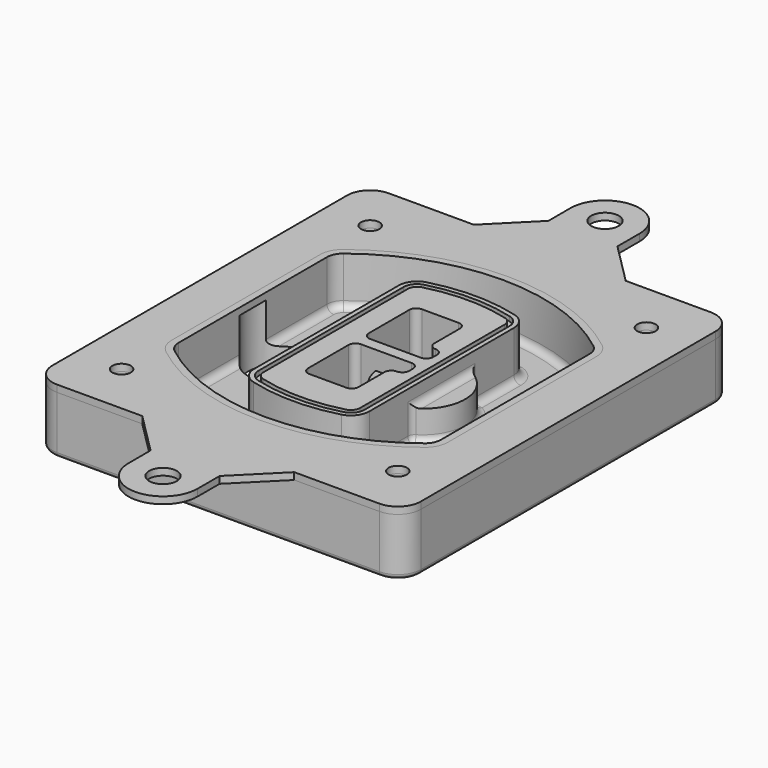
from build123d import *

# Parameters (mm, degrees)
F0_R      = 4
F1_DEPTH  = 25
F2_DEPTH  = 3
F3_DEPTH  = 18
F5_DEPTH  = 21
F6_DEPTH  = 2
F8_DEPTH  = 20
F9_DEPTH  = 16
F10_DEPTH = 25
F7_R      = 6
F7_R_2    = 4
F11_DEPTH = 6
F13_DEPTH = 9
F14_R     = 3
F15_R     = 2
F16_R     = 6
F16_R_2   = 4
F17_DEPTH = 3


with BuildPart() as f1:
    # F0 (on Top) → F1 (new body)
    with BuildSketch(Plane.XY):
        with BuildLine():
            ThreePointArc((-80, -80), (-77.0710678119, -87.0710678119), (-70, -90))
            Line((-70, -90), (70, -90))
            ThreePointArc((70, -90), (77.0710678119, -87.0710678119), (80, -80))
            Line((80, -80), (80, 80))
            ThreePointArc((80, 80), (77.0710678119, 87.0710678119), (70, 90))
            Line((70, 90), (-70, 90))
            ThreePointArc((-70, 90), (-77.0710678119, 87.0710678119), (-80, 80))
            Line((-80, 80), (-80, -80))
        make_face()
        with Locations((-60, -67.5)):
            Circle(F0_R, mode=Mode.SUBTRACT)
        with Locations((60, -67.5)):
            Circle(F0_R, mode=Mode.SUBTRACT)
        with Locations((-60, 67.5)):
            Circle(F0_R, mode=Mode.SUBTRACT)
        with BuildLine():
            ThreePointArc((-64, 40.2934422872), (-62.5820384798, 46.4328484224), (-58.6153846154, 51.3286200352))
            ThreePointArc((-58.6153846154, 51.3286200352), (0, 71.5), (58.6153846154, 51.3286200352))
            ThreePointArc((58.6153846154, 51.3286200352), (62.5820384798, 46.4328484224), (64, 40.2934422872))
            Line((64, 40.2934422872), (64, -40.2934422872))
            ThreePointArc((64, -40.2934422872), (62.5820384798, -46.4328484224), (58.6153846154, -51.3286200352))
            ThreePointArc((58.6153846154, -51.3286200352), (0, -71.5), (-58.6153846154, -51.3286200352))
            ThreePointArc((-58.6153846154, -51.3286200352), (-62.5820384798, -46.4328484224), (-64, -40.2934422872))
            Line((-64, -40.2934422872), (-64, 40.2934422872))
        make_face(mode=Mode.SUBTRACT)
        with Locations((60, 67.5)):
            Circle(F0_R, mode=Mode.SUBTRACT)
        with BuildLine():
            ThreePointArc((58.6153846154, 51.3286200352), (0, 71.5), (-58.6153846154, 51.3286200352))
            ThreePointArc((-58.6153846154, 51.3286200352), (-62.5820384798, 46.4328484224), (-64, 40.2934422872))
            Line((-64, 40.2934422872), (-64, -40.2934422872))
            ThreePointArc((-64, -40.2934422872), (-62.5820384798, -46.4328484224), (-58.6153846154, -51.3286200352))
            ThreePointArc((-58.6153846154, -51.3286200352), (0, -71.5), (58.6153846154, -51.3286200352))
            ThreePointArc((58.6153846154, -51.3286200352), (62.5820384798, -46.4328484224), (64, -40.2934422872))
            Line((64, -40.2934422872), (64, 40.2934422872))
            ThreePointArc((64, 40.2934422872), (62.5820384798, 46.4328484224), (58.6153846154, 51.3286200352))
        make_face()
        with BuildLine():
            Line((-60, -40.2934422872), (-60, 40.2934422872))
            ThreePointArc((-60, 40.2934422872), (-58.9871703427, 44.6787323838), (-56.1538461538, 48.1757121072))
            ThreePointArc((-56.1538461538, 48.1757121072), (0, 67.5), (56.1538461538, 48.1757121072))
            ThreePointArc((56.1538461538, 48.1757121072), (58.9871703427, 44.6787323838), (60, 40.2934422872))
            Line((60, 40.2934422872), (60, -40.2934422872))
            ThreePointArc((60, -40.2934422872), (58.9871703427, -44.6787323838), (56.1538461538, -48.1757121072))
            ThreePointArc((56.1538461538, -48.1757121072), (0, -67.5), (-56.1538461538, -48.1757121072))
            ThreePointArc((-56.1538461538, -48.1757121072), (-58.9871703427, -44.6787323838), (-60, -40.2934422872))
        make_face(mode=Mode.SUBTRACT)
        with BuildLine():
            ThreePointArc((-56.1538461538, 48.1757121072), (-58.9871703427, 44.6787323838), (-60, 40.2934422872))
            Line((-60, 40.2934422872), (-60, -40.2934422872))
            ThreePointArc((-60, -40.2934422872), (-58.9871703427, -44.6787323838), (-56.1538461538, -48.1757121072))
            ThreePointArc((-56.1538461538, -48.1757121072), (0, -67.5), (56.1538461538, -48.1757121072))
            ThreePointArc((56.1538461538, -48.1757121072), (58.9871703427, -44.6787323838), (60, -40.2934422872))
            Line((60, -40.2934422872), (60, 40.2934422872))
            ThreePointArc((60, 40.2934422872), (58.9871703427, 44.6787323838), (56.1538461538, 48.1757121072))
            ThreePointArc((56.1538461538, 48.1757121072), (0, 67.5), (-56.1538461538, 48.1757121072))
        make_face()
        with BuildLine():
            ThreePointArc((54.3076923077, 45.8110311612), (56.2910192399, 43.3631453548), (57, 40.2934422872))
            Line((57, 40.2934422872), (57, -40.2934422872))
            ThreePointArc((57, -40.2934422872), (56.2910192399, -43.3631453548), (54.3076923077, -45.8110311612))
            ThreePointArc((54.3076923077, -45.8110311612), (0, -64.5), (-54.3076923077, -45.8110311612))
            ThreePointArc((-54.3076923077, -45.8110311612), (-56.2910192399, -43.3631453548), (-57, -40.2934422872))
            Line((-57, -40.2934422872), (-57, 40.2934422872))
            ThreePointArc((-57, 40.2934422872), (-56.2910192399, 43.3631453548), (-54.3076923077, 45.8110311612))
            ThreePointArc((-54.3076923077, 45.8110311612), (0, 64.5), (54.3076923077, 45.8110311612))
        make_face(mode=Mode.SUBTRACT)
        with BuildLine():
            Line((57, -40.2934422872), (57, 40.2934422872))
            ThreePointArc((57, 40.2934422872), (56.2910192399, 43.3631453548), (54.3076923077, 45.8110311612))
            ThreePointArc((54.3076923077, 45.8110311612), (0, 64.5), (-54.3076923077, 45.8110311612))
            ThreePointArc((-54.3076923077, 45.8110311612), (-56.2910192399, 43.3631453548), (-57, 40.2934422872))
            Line((-57, 40.2934422872), (-57, -40.2934422872))
            ThreePointArc((-57, -40.2934422872), (-56.2910192399, -43.3631453548), (-54.3076923077, -45.8110311612))
            ThreePointArc((-54.3076923077, -45.8110311612), (0, -64.5), (54.3076923077, -45.8110311612))
            ThreePointArc((54.3076923077, -45.8110311612), (56.2910192399, -43.3631453548), (57, -40.2934422872))
        make_face()
    extrude(amount=-F1_DEPTH)

    # F0 (on Top) → F2 (join)
    with BuildSketch(Plane.XY):
        with BuildLine():
            ThreePointArc((-56.1538461538, 48.1757121072), (-58.9871703427, 44.6787323838), (-60, 40.2934422872))
            Line((-60, 40.2934422872), (-60, -40.2934422872))
            ThreePointArc((-60, -40.2934422872), (-58.9871703427, -44.6787323838), (-56.1538461538, -48.1757121072))
            ThreePointArc((-56.1538461538, -48.1757121072), (0, -67.5), (56.1538461538, -48.1757121072))
            ThreePointArc((56.1538461538, -48.1757121072), (58.9871703427, -44.6787323838), (60, -40.2934422872))
            Line((60, -40.2934422872), (60, 40.2934422872))
            ThreePointArc((60, 40.2934422872), (58.9871703427, 44.6787323838), (56.1538461538, 48.1757121072))
            ThreePointArc((56.1538461538, 48.1757121072), (0, 67.5), (-56.1538461538, 48.1757121072))
        make_face()
        with BuildLine():
            ThreePointArc((54.3076923077, 45.8110311612), (56.2910192399, 43.3631453548), (57, 40.2934422872))
            Line((57, 40.2934422872), (57, -40.2934422872))
            ThreePointArc((57, -40.2934422872), (56.2910192399, -43.3631453548), (54.3076923077, -45.8110311612))
            ThreePointArc((54.3076923077, -45.8110311612), (0, -64.5), (-54.3076923077, -45.8110311612))
            ThreePointArc((-54.3076923077, -45.8110311612), (-56.2910192399, -43.3631453548), (-57, -40.2934422872))
            Line((-57, -40.2934422872), (-57, 40.2934422872))
            ThreePointArc((-57, 40.2934422872), (-56.2910192399, 43.3631453548), (-54.3076923077, 45.8110311612))
            ThreePointArc((-54.3076923077, 45.8110311612), (0, 64.5), (54.3076923077, 45.8110311612))
        make_face(mode=Mode.SUBTRACT)
    extrude(amount=F2_DEPTH)

    # F0 (on Top) → F3 (cut)
    with BuildSketch(Plane.XY):
        with BuildLine():
            Line((57, -40.2934422872), (57, 40.2934422872))
            ThreePointArc((57, 40.2934422872), (56.2910192399, 43.3631453548), (54.3076923077, 45.8110311612))
            ThreePointArc((54.3076923077, 45.8110311612), (0, 64.5), (-54.3076923077, 45.8110311612))
            ThreePointArc((-54.3076923077, 45.8110311612), (-56.2910192399, 43.3631453548), (-57, 40.2934422872))
            Line((-57, 40.2934422872), (-57, -40.2934422872))
            ThreePointArc((-57, -40.2934422872), (-56.2910192399, -43.3631453548), (-54.3076923077, -45.8110311612))
            ThreePointArc((-54.3076923077, -45.8110311612), (0, -64.5), (54.3076923077, -45.8110311612))
            ThreePointArc((54.3076923077, -45.8110311612), (56.2910192399, -43.3631453548), (57, -40.2934422872))
        make_face()
    extrude(amount=-F3_DEPTH, mode=Mode.SUBTRACT)

    # F4 (on face) → F5 (join, through all)
    with BuildSketch(Plane.XY.offset(3)):
        with BuildLine():
            ThreePointArc((-25, -39.2465276821), (-23.3511545998, -44.1109737193), (-19.0842911877, -46.9702398883))
            ThreePointArc((-19.0842911877, -46.9702398883), (0, -49.5), (19.0842911877, -46.9702398883))
            ThreePointArc((19.0842911877, -46.9702398883), (23.3511545998, -44.1109737193), (25, -39.2465276821))
            Line((25, -39.2465276821), (25, 39.2465276821))
            ThreePointArc((25, 39.2465276821), (23.3511545998, 44.1109737193), (19.0842911877, 46.9702398883))
            ThreePointArc((19.0842911877, 46.9702398883), (0, 49.5), (-19.0842911877, 46.9702398883))
            ThreePointArc((-19.0842911877, 46.9702398883), (-23.3511545998, 44.1109737193), (-25, 39.2465276821))
            Line((-25, 39.2465276821), (-25, -39.2465276821))
        make_face()
        with BuildLine():
            ThreePointArc((18.5632183908, 45.0393118368), (21.7633659499, 42.89486221), (23, 39.2465276821))
            Line((23, 39.2465276821), (23, -39.2465276821))
            ThreePointArc((23, -39.2465276821), (21.7633659499, -42.89486221), (18.5632183908, -45.0393118368))
            ThreePointArc((18.5632183908, -45.0393118368), (0, -47.5), (-18.5632183908, -45.0393118368))
            ThreePointArc((-18.5632183908, -45.0393118368), (-21.7633659499, -42.89486221), (-23, -39.2465276821))
            Line((-23, -39.2465276821), (-23, 39.2465276821))
            ThreePointArc((-23, 39.2465276821), (-21.7633659499, 42.89486221), (-18.5632183908, 45.0393118368))
            ThreePointArc((-18.5632183908, 45.0393118368), (0, 47.5), (18.5632183908, 45.0393118368))
        make_face(mode=Mode.SUBTRACT)
        with BuildLine():
            Line((23, -39.2465276821), (23, 39.2465276821))
            ThreePointArc((23, 39.2465276821), (21.7633659499, 42.89486221), (18.5632183908, 45.0393118368))
            ThreePointArc((18.5632183908, 45.0393118368), (0, 47.5), (-18.5632183908, 45.0393118368))
            ThreePointArc((-18.5632183908, 45.0393118368), (-21.7633659499, 42.89486221), (-23, 39.2465276821))
            Line((-23, 39.2465276821), (-23, -39.2465276821))
            ThreePointArc((-23, -39.2465276821), (-21.7633659499, -42.89486221), (-18.5632183908, -45.0393118368))
            ThreePointArc((-18.5632183908, -45.0393118368), (0, -47.5), (18.5632183908, -45.0393118368))
            ThreePointArc((18.5632183908, -45.0393118368), (21.7633659499, -42.89486221), (23, -39.2465276821))
        make_face()
        with BuildLine():
            ThreePointArc((18.0421455939, 43.1083837852), (20.1755772999, 41.6787507007), (21, 39.2465276821))
            Line((21, 39.2465276821), (21, -39.2465276821))
            ThreePointArc((21, -39.2465276821), (20.1755772999, -41.6787507007), (18.0421455939, -43.1083837852))
            ThreePointArc((18.0421455939, -43.1083837852), (0, -45.5), (-18.0421455939, -43.1083837852))
            ThreePointArc((-18.0421455939, -43.1083837852), (-20.1755772999, -41.6787507007), (-21, -39.2465276821))
            Line((-21, -39.2465276821), (-21, 39.2465276821))
            ThreePointArc((-21, 39.2465276821), (-20.1755772999, 41.6787507007), (-18.0421455939, 43.1083837852))
            ThreePointArc((-18.0421455939, 43.1083837852), (0, 45.5), (18.0421455939, 43.1083837852))
        make_face(mode=Mode.SUBTRACT)
        with BuildLine():
            Line((21, -39.2465276821), (21, 39.2465276821))
            ThreePointArc((21, 39.2465276821), (20.1755772999, 41.6787507007), (18.0421455939, 43.1083837852))
            ThreePointArc((18.0421455939, 43.1083837852), (0, 45.5), (-18.0421455939, 43.1083837852))
            ThreePointArc((-18.0421455939, 43.1083837852), (-20.1755772999, 41.6787507007), (-21, 39.2465276821))
            Line((-21, 39.2465276821), (-21, -39.2465276821))
            ThreePointArc((-21, -39.2465276821), (-20.1755772999, -41.6787507007), (-18.0421455939, -43.1083837852))
            ThreePointArc((-18.0421455939, -43.1083837852), (0, -45.5), (18.0421455939, -43.1083837852))
            ThreePointArc((18.0421455939, -43.1083837852), (20.1755772999, -41.6787507007), (21, -39.2465276821))
        make_face()
        with BuildLine():
            Line((-8, -2.5), (14, -2.5))
            ThreePointArc((14, -2.5), (16.1213203436, -3.3786796564), (17, -5.5))
            Line((17, -5.5), (17, -7.5))
            ThreePointArc((17, -7.5), (16.1213203436, -9.6213203436), (14, -10.5))
            ThreePointArc((14, -10.5), (11.8786796564, -11.3786796564), (11, -13.5))
            Line((11, -13.5), (11, -27.5))
            ThreePointArc((11, -27.5), (10.1213203436, -29.6213203436), (8, -30.5))
            Line((8, -30.5), (-8, -30.5))
            ThreePointArc((-8, -30.5), (-10.1213203436, -29.6213203436), (-11, -27.5))
            Line((-11, -27.5), (-11, -5.5))
            ThreePointArc((-11, -5.5), (-10.1213203436, -3.3786796564), (-8, -2.5))
        make_face(mode=Mode.SUBTRACT)
        with BuildLine():
            ThreePointArc((-8, 2.5), (-10.1213203436, 3.3786796564), (-11, 5.5))
            Line((-11, 5.5), (-11, 27.5))
            ThreePointArc((-11, 27.5), (-10.1213203436, 29.6213203436), (-8, 30.5))
            Line((-8, 30.5), (8, 30.5))
            ThreePointArc((8, 30.5), (10.1213203436, 29.6213203436), (11, 27.5))
            Line((11, 27.5), (11, 13.5))
            ThreePointArc((11, 13.5), (11.8786796564, 11.3786796564), (14, 10.5))
            ThreePointArc((14, 10.5), (16.1213203436, 9.6213203436), (17, 7.5))
            Line((17, 7.5), (17, 5.5))
            ThreePointArc((17, 5.5), (16.1213203436, 3.3786796564), (14, 2.5))
            Line((14, 2.5), (-8, 2.5))
        make_face(mode=Mode.SUBTRACT)
    extrude(amount=-F5_DEPTH)

    # F4 (on face) → F6 (cut)
    with BuildSketch(Plane.XY.offset(3)):
        with BuildLine():
            Line((23, -39.2465276821), (23, 39.2465276821))
            ThreePointArc((23, 39.2465276821), (21.7633659499, 42.89486221), (18.5632183908, 45.0393118368))
            ThreePointArc((18.5632183908, 45.0393118368), (0, 47.5), (-18.5632183908, 45.0393118368))
            ThreePointArc((-18.5632183908, 45.0393118368), (-21.7633659499, 42.89486221), (-23, 39.2465276821))
            Line((-23, 39.2465276821), (-23, -39.2465276821))
            ThreePointArc((-23, -39.2465276821), (-21.7633659499, -42.89486221), (-18.5632183908, -45.0393118368))
            ThreePointArc((-18.5632183908, -45.0393118368), (0, -47.5), (18.5632183908, -45.0393118368))
            ThreePointArc((18.5632183908, -45.0393118368), (21.7633659499, -42.89486221), (23, -39.2465276821))
        make_face()
        with BuildLine():
            ThreePointArc((18.0421455939, 43.1083837852), (20.1755772999, 41.6787507007), (21, 39.2465276821))
            Line((21, 39.2465276821), (21, -39.2465276821))
            ThreePointArc((21, -39.2465276821), (20.1755772999, -41.6787507007), (18.0421455939, -43.1083837852))
            ThreePointArc((18.0421455939, -43.1083837852), (0, -45.5), (-18.0421455939, -43.1083837852))
            ThreePointArc((-18.0421455939, -43.1083837852), (-20.1755772999, -41.6787507007), (-21, -39.2465276821))
            Line((-21, -39.2465276821), (-21, 39.2465276821))
            ThreePointArc((-21, 39.2465276821), (-20.1755772999, 41.6787507007), (-18.0421455939, 43.1083837852))
            ThreePointArc((-18.0421455939, 43.1083837852), (0, 45.5), (18.0421455939, 43.1083837852))
        make_face(mode=Mode.SUBTRACT)
    extrude(amount=-F6_DEPTH, mode=Mode.SUBTRACT)

    # F7 (on face) → F8 (join)
    with BuildSketch(Plane(origin=(0, 0, -25), x_dir=(1, 0, 0), z_dir=(0, 0, -1))):
        with BuildLine():
            ThreePointArc((3.28842436, 0), (16.7567035675, 13.4682792075), (30.224982775, 0))
            Line((30.224982775, 0), (35.224982775, 0))
            ThreePointArc((35.224982775, 0), (16.7567035675, 18.4682792075), (-1.71157564, 0))
            Line((-1.71157564, 0), (3.28842436, 0))
        make_face()
        with BuildLine():
            Line((3.28842436, 0), (30.224982775, 0))
            ThreePointArc((30.224982775, 0), (16.7567035675, 13.4682792075), (3.28842436, 0))
        make_face()
        with BuildLine():
            ThreePointArc((3.28842436, 0), (16.7567035675, -13.4682792075), (30.224982775, 0))
            Line((30.224982775, 0), (3.28842436, 0))
        make_face()
        with BuildLine():
            Line((35.224982775, 0), (30.224982775, 0))
            ThreePointArc((30.224982775, 0), (16.7567035675, -13.4682792075), (3.28842436, 0))
            Line((3.28842436, 0), (-1.71157564, 0))
            ThreePointArc((-1.71157564, 0), (16.7567035675, -18.4682792075), (35.224982775, 0))
        make_face()
    extrude(amount=-F8_DEPTH)

    # F7 (on face) → F9 (cut)
    with BuildSketch(Plane(origin=(0, 0, -25), x_dir=(1, 0, 0), z_dir=(0, 0, -1))):
        with BuildLine():
            Line((3.28842436, 0), (30.224982775, 0))
            ThreePointArc((30.224982775, 0), (16.7567035675, 13.4682792075), (3.28842436, 0))
        make_face()
        with BuildLine():
            ThreePointArc((3.28842436, 0), (16.7567035675, -13.4682792075), (30.224982775, 0))
            Line((30.224982775, 0), (3.28842436, 0))
        make_face()
    extrude(amount=-F9_DEPTH, mode=Mode.SUBTRACT)

    # F7 (on face) → F10 (cut)
    with BuildSketch(Plane(origin=(0, 0, -25), x_dir=(1, 0, 0), z_dir=(0, 0, -1))):
        with BuildLine():
            Line((-59.0318229325, 0), (-32.0952645175, 0))
            ThreePointArc((-32.0952645175, 0), (-45.563543725, 13.4682792075), (-59.0318229325, 0))
        make_face()
        with BuildLine():
            ThreePointArc((-59.0318229325, 0), (-45.563543725, -13.4682792075), (-32.0952645175, 0))
            Line((-32.0952645175, 0), (-59.0318229325, 0))
        make_face()
    extrude(amount=-F10_DEPTH, mode=Mode.SUBTRACT)

    # F7 (on face) → F11 (cut)
    with BuildSketch(Plane(origin=(0, 0, -25), x_dir=(1, 0, 0), z_dir=(0, 0, -1))):
        with Locations((60, -67.5)):
            Circle(F7_R)
        with Locations((60, -67.5)):
            Circle(F7_R_2, mode=Mode.SUBTRACT)
        with Locations((60, -67.5)):
            Circle(F7_R)
        with Locations((60, -67.5)):
            Circle(F7_R_2, mode=Mode.SUBTRACT)
        with Locations((-60, -67.5)):
            Circle(F7_R)
        with Locations((-60, -67.5)):
            Circle(F7_R_2, mode=Mode.SUBTRACT)
        with Locations((-60, -67.5)):
            Circle(F7_R)
        with Locations((-60, -67.5)):
            Circle(F7_R_2, mode=Mode.SUBTRACT)
        with Locations((-60, 67.5)):
            Circle(F7_R)
        with Locations((-60, 67.5)):
            Circle(F7_R_2, mode=Mode.SUBTRACT)
        with Locations((-60, 67.5)):
            Circle(F7_R)
        with Locations((-60, 67.5)):
            Circle(F7_R_2, mode=Mode.SUBTRACT)
        with Locations((60, 67.5)):
            Circle(F7_R)
        with Locations((60, 67.5)):
            Circle(F7_R_2, mode=Mode.SUBTRACT)
        with Locations((60, 67.5)):
            Circle(F7_R)
        with Locations((60, 67.5)):
            Circle(F7_R_2, mode=Mode.SUBTRACT)
    extrude(amount=-F11_DEPTH, mode=Mode.SUBTRACT)

    # F12 (on face) → F13 (cut, through all)
    with BuildSketch(Plane(origin=(0, 0, -9), x_dir=(1, 0, 0), z_dir=(0, 0, -1))):
        with BuildLine():
            Line((11, 13.5), (11, 17.5481537753))
            ThreePointArc((11, 17.5481537753), (2.5696536419, 11.8239143813), (-1.5415842455, 2.5))
            Line((-1.5415842455, 2.5), (3.5224848595, 2.5))
            ThreePointArc((3.5224848595, 2.5), (6.1857188154, 8.3455872281), (11.2536447004, 12.2927168648))
            ThreePointArc((11.2536447004, 12.2927168648), (11.0640958889, 12.8831798879), (11, 13.5))
        make_face()
        with BuildLine():
            ThreePointArc((11.2536447004, -12.2927168648), (6.1857188154, -8.3455872281), (3.5224848595, -2.5))
            Line((3.5224848595, -2.5), (-1.5415842455, -2.5))
            ThreePointArc((-1.5415842455, -2.5), (2.5696536419, -11.8239143813), (11, -17.5481537753))
            Line((11, -17.5481537753), (11, -13.5))
            ThreePointArc((11, -13.5), (11.0640958889, -12.8831798879), (11.2536447004, -12.2927168648))
        make_face()
        with BuildLine():
            ThreePointArc((11.2536447004, 12.2927168648), (6.1857188154, 8.3455872281), (3.5224848595, 2.5))
            Line((3.5224848595, 2.5), (14, 2.5))
            ThreePointArc((14, 2.5), (16.1213203436, 3.3786796564), (17, 5.5))
            Line((17, 5.5), (17, 7.5))
            ThreePointArc((17, 7.5), (16.1213203436, 9.6213203436), (14, 10.5))
            ThreePointArc((14, 10.5), (12.3601599782, 10.9878446101), (11.2536447004, 12.2927168648))
        make_face()
        with BuildLine():
            Line((14, -2.5), (3.5224848595, -2.5))
            ThreePointArc((3.5224848595, -2.5), (6.1857188154, -8.3455872281), (11.2536447004, -12.2927168648))
            ThreePointArc((11.2536447004, -12.2927168648), (12.3601599782, -10.9878446101), (14, -10.5))
            ThreePointArc((14, -10.5), (16.1213203436, -9.6213203436), (17, -7.5))
            Line((17, -7.5), (17, -5.5))
            ThreePointArc((17, -5.5), (16.1213203436, -3.3786796564), (14, -2.5))
        make_face()
    extrude(amount=F13_DEPTH, mode=Mode.SUBTRACT)

    # F14
    f14_edges = [f1.edges().sort_by_distance(p)[0] for p in [
        (-57, -23.703476, -18),
        (-57, 23.703476, -18),
        (25, 0, -5),
        (25, 16.526506, -11.5),
        (25, -16.526506, -11.5),
        (25, -27.886517, -18),
        (35.224983, 0, -18),
    ]]
    fillet(f14_edges, radius=F14_R)

    # F15
    f15_edges = [f1.edges().sort_by_distance(p)[0] for p in [
        (0, -90, -25),
    ]]
    fillet(f15_edges, radius=F15_R)


with BuildPart() as f17:
    # F16 (on face) → F17 (new body, through all)
    with BuildSketch(Plane.XY):
        with BuildLine():
            Line((15, -108), (33, -90))
            Line((33, -90), (-33, -90))
            Line((-33, -90), (-15, -108))
            Line((-15, -108), (-15, -120))
            ThreePointArc((-15, -120), (0, -135), (15, -120))
            Line((15, -120), (15, -108))
        make_face()
        with Locations((0, -120)):
            Circle(F16_R, mode=Mode.SUBTRACT)
        with BuildLine():
            Line((15, 108), (15, 120))
            ThreePointArc((15, 120), (0, 135), (-15, 120))
            Line((-15, 120), (-15, 108))
            Line((-15, 108), (-33, 90))
            Line((-33, 90), (33, 90))
            Line((33, 90), (15, 108))
        make_face()
        with Locations((0, 120)):
            Circle(F16_R, mode=Mode.SUBTRACT)
        with BuildLine():
            Line((70, 90), (33, 90))
            Line((33, 90), (-33, 90))
            Line((-33, 90), (-70, 90))
            ThreePointArc((-70, 90), (-77.0710678119, 87.0710678119), (-80, 80))
            Line((-80, 80), (-80, -80))
            ThreePointArc((-80, -80), (-77.0710678119, -87.0710678119), (-70, -90))
            Line((-70, -90), (-33, -90))
            Line((-33, -90), (33, -90))
            Line((33, -90), (70, -90))
            ThreePointArc((70, -90), (77.0710678119, -87.0710678119), (80, -80))
            Line((80, -80), (80, 80))
            ThreePointArc((80, 80), (77.0710678119, 87.0710678119), (70, 90))
        make_face()
        with Locations((-60, -67.5)):
            Circle(F16_R_2, mode=Mode.SUBTRACT)
        with Locations((60, -67.5)):
            Circle(F16_R_2, mode=Mode.SUBTRACT)
        with Locations((-60, 67.5)):
            Circle(F16_R_2, mode=Mode.SUBTRACT)
        with BuildLine():
            ThreePointArc((-60, 40.2934422872), (-58.9871703427, 44.6787323838), (-56.1538461538, 48.1757121072))
            ThreePointArc((-56.1538461538, 48.1757121072), (0, 67.5), (56.1538461538, 48.1757121072))
            ThreePointArc((56.1538461538, 48.1757121072), (58.9871703427, 44.6787323838), (60, 40.2934422872))
            Line((60, 40.2934422872), (60, -40.2934422872))
            ThreePointArc((60, -40.2934422872), (58.9871703427, -44.6787323838), (56.1538461538, -48.1757121072))
            ThreePointArc((56.1538461538, -48.1757121072), (0, -67.5), (-56.1538461538, -48.1757121072))
            ThreePointArc((-56.1538461538, -48.1757121072), (-58.9871703427, -44.6787323838), (-60, -40.2934422872))
            Line((-60, -40.2934422872), (-60, 40.2934422872))
        make_face(mode=Mode.SUBTRACT)
        with Locations((60, 67.5)):
            Circle(F16_R_2, mode=Mode.SUBTRACT)
    extrude(amount=F17_DEPTH)


solid = Compound([f1.part, f17.part])
